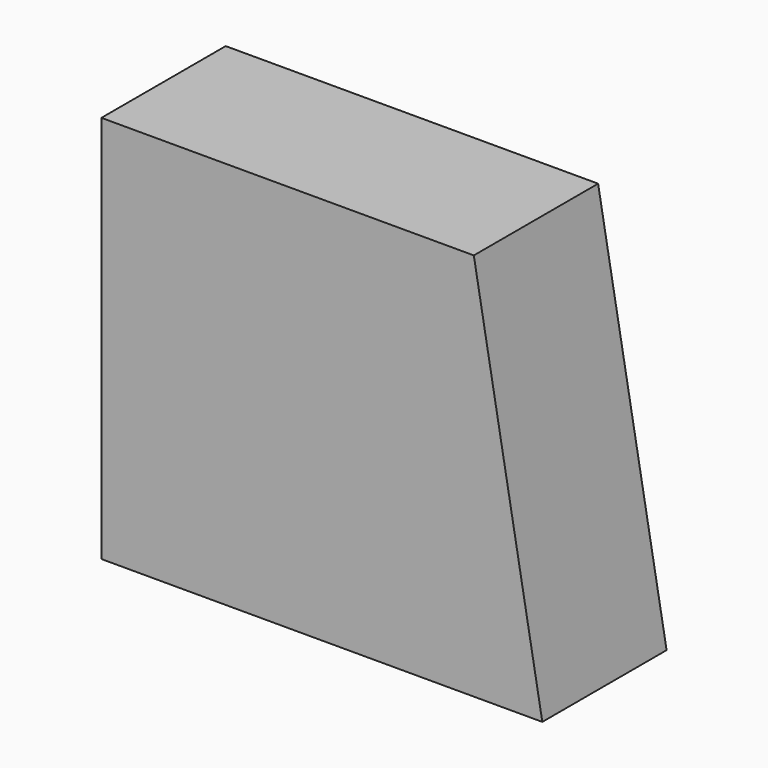
from build123d import *

# Parameters (mm, degrees)
F1_DEPTH = 10
F2_R     = 2.36
F3_DEPTH = 23


with BuildPart() as f1:
    # F0 (on Front) → F1 (new body)
    with BuildSketch(Plane.XZ):
        Polygon((0, 25), (0, 0), (28.378175, 0), (23.97, 25), align=None)
    extrude(amount=-F1_DEPTH)

    # F2 (on face) → F3 (cut)
    with BuildSketch(Plane(origin=(0, 0, 0), x_dir=(1, 0, 0), z_dir=(0, 0, -1))):
        with Locations((14.189087, -5)):
            Circle(F2_R)
    extrude(amount=-F3_DEPTH, mode=Mode.SUBTRACT)


solid = f1.part
